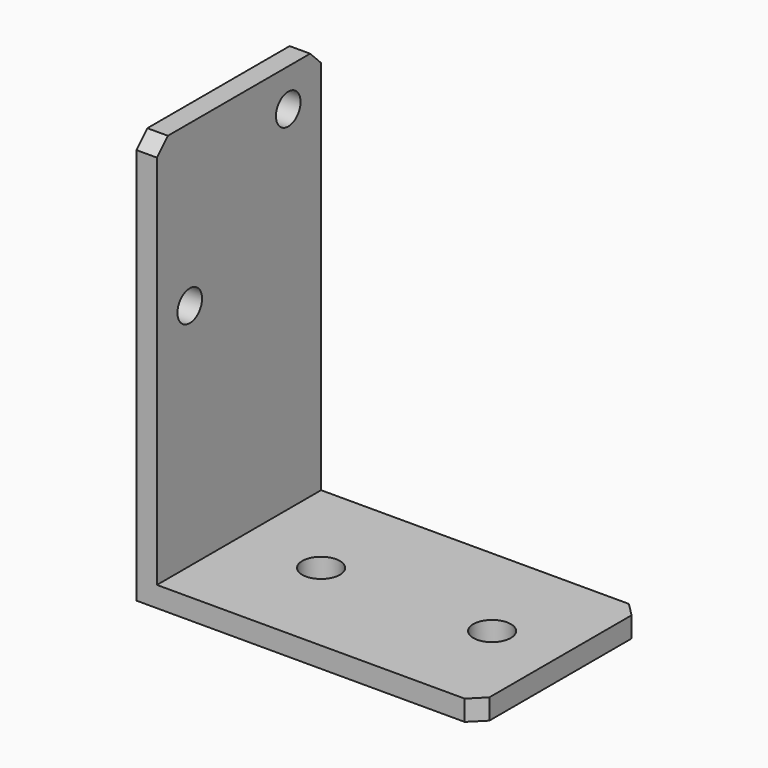
from build123d import *

# Parameters (mm, degrees)
F0_W     = 47
F0_H     = 30
F1_DEPTH = 3
F0_W_2   = 3
F2_DEPTH = 60
F4_D     = 4.5
F4_DEPTH = 12.4
F6_D     = 5.5
F6_DEPTH = 12.4
F7_SIZE  = 2


with BuildPart() as f1:
    # F0 (on Top) → F1 (new body)
    with BuildSketch(Plane.XY):
        with Locations((1.397237, -14.812001)):
            Rectangle(F0_W, F0_H)
    extrude(amount=F1_DEPTH)

    # F0 (on Top) → F2 (join)
    with BuildSketch(Plane.XY):
        with Locations((-23.602763, -14.812001)):
            Rectangle(F0_W_2, F0_H)
    extrude(amount=F2_DEPTH)

    # F4
    with Locations(Plane(origin=(-25.102763, 0, 0), x_dir=(0, -1, 0), z_dir=(-1, 0, 0))):
        with Locations((5.812001, 54.5), (23.812001, 36.5)):
            Hole(F4_D / 2, depth=F4_DEPTH)

    # F6
    with Locations(Plane.XY.offset(3)):
        with Locations((-10.102763, -14.812001), (14.897237, -14.812001)):
            Hole(F6_D / 2, depth=F6_DEPTH)

    # F7
    f7_edges = [f1.edges().sort_by_distance(p)[0] for p in [
        (-23.602763, -29.812001, 60),
        (-23.602763, 0.187999, 60),
        (24.897237, -29.812001, 1.5),
        (24.897237, 0.187999, 1.5),
    ]]
    chamfer(f7_edges, length=F7_SIZE)


solid = f1.part
